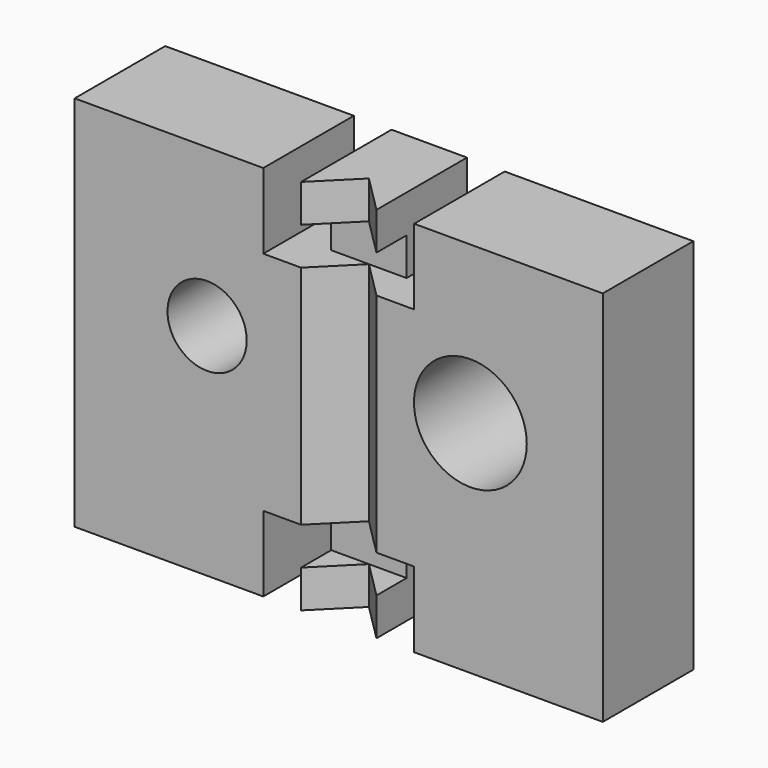
from build123d import *

# Parameters (mm, degrees)
SKETCH007_W            = 70
SKETCH007_H            = 50
SKETCH007_R            = 7.475
SKETCH007_R_2          = 5.25
PAD010_DEPTH           = 15
POCKET_DEPTH           = 50.001
SKETCH009_W            = 5
SKETCH009_H            = 10
POCKET001_DEPTH        = 15.001
LINEARPATTERN_COUNT    = 2
LINEARPATTERN_PITCH    = 40
SKETCH010_W            = 10
SKETCH010_H            = 5
POCKET002_DEPTH        = 5
LINEARPATTERN001_COUNT = 2
LINEARPATTERN001_PITCH = 35


with BuildPart() as part:
    # Sketch007 → Pad010 (new body)
    with BuildSketch(Plane.XZ):
        with Locations((8.6, 25)):
            Rectangle(SKETCH007_W, SKETCH007_H)
        with Locations((26.05, 29.15)):
            Circle(SKETCH007_R, mode=Mode.SUBTRACT)
        with Locations((-8.85, 29.15)):
            Circle(SKETCH007_R_2, mode=Mode.SUBTRACT)
    extrude(amount=PAD010_DEPTH)

    # Sketch008 (on Face1 of Pad010) → Pocket (cut, through all)
    with BuildSketch(Plane(origin=(0, 0, 50), x_dir=(-1, 0, 0), z_dir=(0, 0, 1))):
        Polygon((-3.6, 15), (-8.6, 10), (-13.6, 15), align=None)
    extrude(amount=-POCKET_DEPTH, mode=Mode.SUBTRACT)

    # Sketch009 (on Face7 of Pocket) → Pocket001 (cut, through all)
    with BuildSketch(Plane.XZ.offset(15)):
        with Locations((16.1, 5)):
            Rectangle(SKETCH009_W, SKETCH009_H)
        with Locations((1.1, 5)):
            Rectangle(SKETCH009_W, SKETCH009_H)
    pocket001 = extrude(amount=-POCKET001_DEPTH, mode=Mode.SUBTRACT)

    # LinearPattern: Pocket001 ×2
    with Locations(*[(0, 0, i * LINEARPATTERN_PITCH) for i in range(1, LINEARPATTERN_COUNT)]):
        add(pocket001, mode=Mode.SUBTRACT)

    # Sketch010 (on Face4 of LinearPattern) → Pocket002 (cut)
    with BuildSketch(Plane.XZ.offset(15)):
        with Locations((8.6, 42.5)):
            Rectangle(SKETCH010_W, SKETCH010_H)
    pocket002 = extrude(amount=-POCKET002_DEPTH, mode=Mode.SUBTRACT)

    # LinearPattern001: Pocket002 ×2
    with Locations(*[(0, 0, -i * LINEARPATTERN001_PITCH) for i in range(1, LINEARPATTERN001_COUNT)]):
        add(pocket002, mode=Mode.SUBTRACT)


with BuildPart() as part_1:
    # Body001 placement: moved
    add(part.part.moved(Location((0, -35, 0))))


solid = part_1.part
